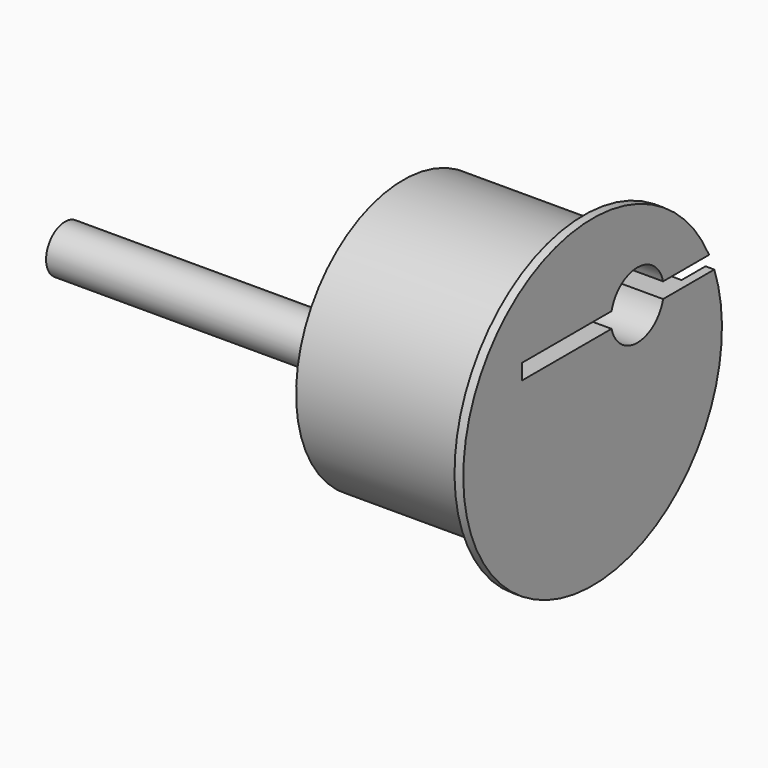
from build123d import *

# Parameters (mm, degrees)
F3_DEPTH = 14.001
F4_DEPTH = 14.001
F6_DEPTH = 2
F7_DEPTH = 2
F8_R     = 1.75
F9_DEPTH = 25


with BuildPart() as f1:
    # F0 (on Front) → F1 (revolve)
    with BuildSketch(Plane.XZ):
        Polygon((-14, 0), (0, 0), (0, 11.95), (-0.65, 11.95), (-0.65, 9.9), (-14, 9.9), align=None)
    revolve(axis=Axis((-7, 0, 0), (1, 0, 0)))

    # F2 (on face) → F3 (cut, through all)
    with BuildSketch(Plane(origin=(-14, 0, 0), x_dir=(0, -1, 0), z_dir=(-1, 0, 0))):
        with BuildLine():
            Line((6.518706, 5.2), (-1.75, 5.2))
            ThreePointArc((-1.75, 5.2), (-4.13157, 7.075), (-6.51314, 5.2))
            Line((-6.51314, 5.2), (-11.242775, 5.2))
            Line((-11.242775, 5.2), (-11.242775, 4.05))
            Line((-11.242775, 4.05), (-6.51314, 4.05))
            ThreePointArc((-6.51314, 4.05), (-4.13157, 2.175), (-1.75, 4.05))
            Line((-1.75, 4.05), (6.518706, 4.05))
            Line((6.518706, 4.05), (6.518706, 5.2))
        make_face()
    extrude(amount=-F3_DEPTH, mode=Mode.SUBTRACT)

    # F2 (on face) → F4 (cut, through all)
    with BuildSketch(Plane(origin=(-14, 0, 0), x_dir=(0, -1, 0), z_dir=(-1, 0, 0))):
        with BuildLine():
            Line((6.518706, 5.2), (-1.75, 5.2))
            ThreePointArc((-1.75, 5.2), (-4.13157, 7.075), (-6.51314, 5.2))
            Line((-6.51314, 5.2), (-11.242775, 5.2))
            Line((-11.242775, 5.2), (-11.242775, 4.05))
            Line((-11.242775, 4.05), (-6.51314, 4.05))
            ThreePointArc((-6.51314, 4.05), (-4.13157, 2.175), (-1.75, 4.05))
            Line((-1.75, 4.05), (6.518706, 4.05))
            Line((6.518706, 4.05), (6.518706, 5.2))
        make_face()
    extrude(amount=-F4_DEPTH, mode=Mode.SUBTRACT)

    # F5 (on face) → F6 (cut)
    with BuildSketch(Plane(origin=(-14, 0, 0), x_dir=(0, -1, 0), z_dir=(-1, 0, 0))):
        with BuildLine():
            ThreePointArc((5.55, -5.8), (8.65, -2.7), (5.55, 0.4))
            Line((5.55, 0.4), (-5.55, 0.4))
            ThreePointArc((-5.55, 0.4), (-8.65, -2.7), (-5.55, -5.8))
            Line((-5.55, -5.8), (5.55, -5.8))
        make_face()
    extrude(amount=-F6_DEPTH, mode=Mode.SUBTRACT)


with BuildPart() as f7:
    # F5 (on face) → F7 (new body, through all)
    with BuildSketch(Plane(origin=(-14, 0, 0), x_dir=(0, -1, 0), z_dir=(-1, 0, 0))):
        with BuildLine():
            ThreePointArc((5.55, -5.8), (8.65, -2.7), (5.55, 0.4))
            Line((5.55, 0.4), (-5.55, 0.4))
            ThreePointArc((-5.55, 0.4), (-8.65, -2.7), (-5.55, -5.8))
            Line((-5.55, -5.8), (5.55, -5.8))
        make_face()
    extrude(amount=-F7_DEPTH)


with BuildPart() as f9:
    # F8 (on face) → F9 (new body)
    with BuildSketch(Plane(origin=(-14, 0, 0), x_dir=(0, -1, 0), z_dir=(-1, 0, 0))):
        with Locations((0, -2.7)):
            Circle(F8_R)
    extrude(amount=F9_DEPTH)


solid = Compound([f1.part, f7.part, f9.part])
